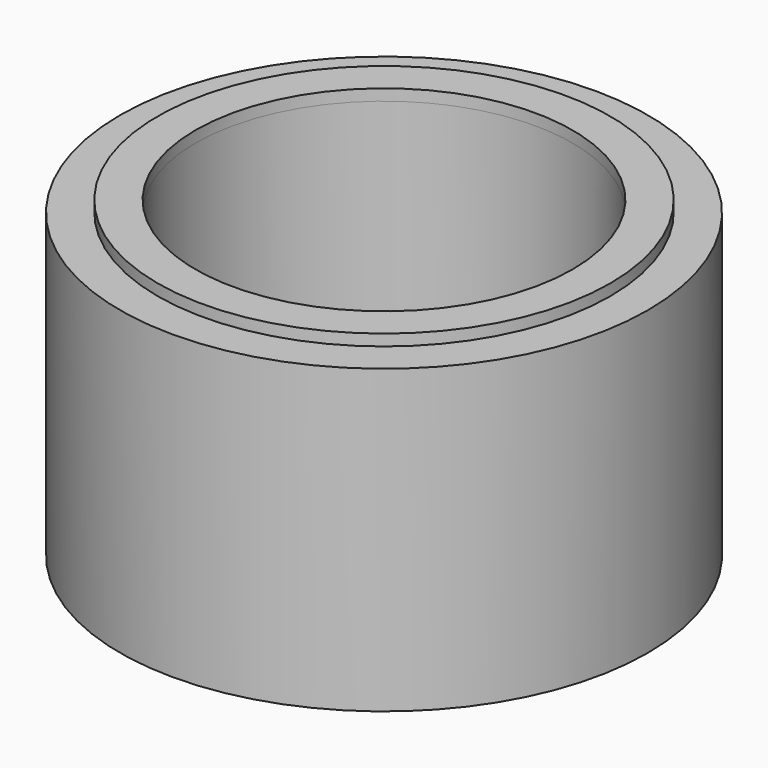
from build123d import *

# Parameters (mm, degrees)
F0_R     = 70
F1_DEPTH = 80
F2_R     = 50
F3_DEPTH = 100
F4_R     = 60
F4_R_2   = 50
F5_DEPTH = 3


with BuildPart() as f1:
    # F0 (on Top) → F1 (new body)
    with BuildSketch(Plane.XY):
        with Locations((-43.891169, -16.593579)):
            Circle(F0_R)
    extrude(amount=F1_DEPTH)

    # F2 (on face) → F3 (cut)
    with BuildSketch(Plane.XY.offset(80)):
        with Locations((-43.891169, -16.593579)):
            Circle(F2_R)
    extrude(amount=-F3_DEPTH, mode=Mode.SUBTRACT)

    # F4 (on face) → F5 (join)
    with BuildSketch(Plane.XY.offset(80)):
        with Locations((-43.891169, -16.593579)):
            Circle(F4_R)
        with Locations((-43.891169, -16.593579)):
            Circle(F4_R_2, mode=Mode.SUBTRACT)
    extrude(amount=F5_DEPTH)


solid = f1.part
